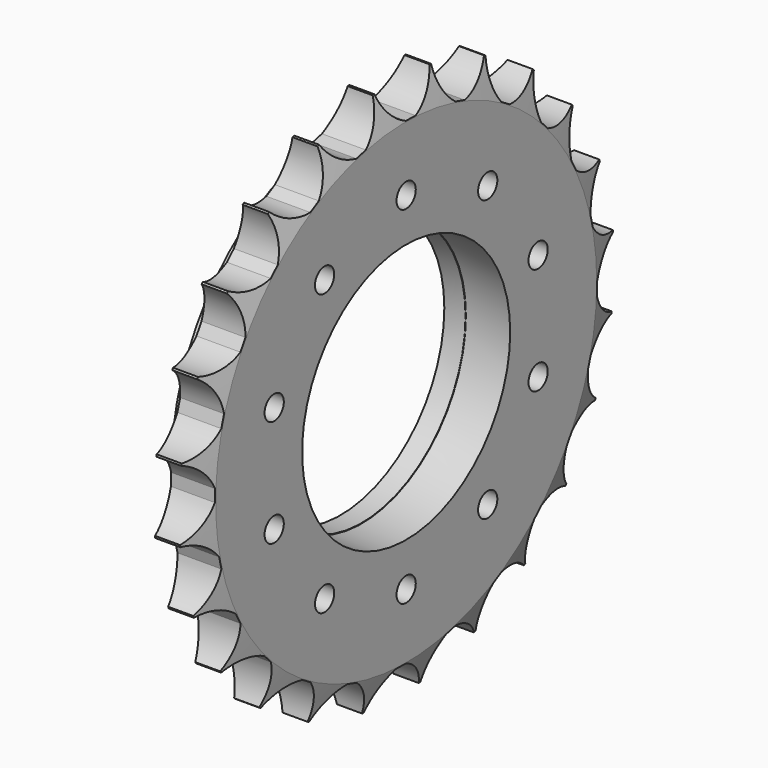
from build123d import *

# Parameters (mm, degrees)
F0_R       = 14.3383
F0_R_2     = 6.858
F1_DEPTH   = 2.3368
F2_SIZE2   = 0.508
F2_SIZE    = 1.778
F2_2_SIZE2 = 0.508
F2_2_SIZE  = 1.778
F4_DEPTH   = 25.4
F5_R       = 0.633649094
F6_DEPTH   = 25.4
F7_R       = 11.1463908985
F7_R_2     = 6.8332396009
F8_DEPTH   = 1.1176


with BuildPart() as f1:
    # F0 (on Right) → F1 (new body)
    with BuildSketch(Plane.YZ):
        Circle(F0_R)
        Circle(F0_R_2, mode=Mode.SUBTRACT)
    extrude(amount=F1_DEPTH)

    # F2
    f2_edges = [f1.edges().sort_by_distance(p)[0] for p in [
        (2.3368, -14.3383, 0),
    ]]
    f2_side = f1.faces().sort_by_distance((2.3368, -13.932752, 0))[0]
    chamfer(f2_edges, length=F2_SIZE, length2=F2_SIZE2, reference=f2_side)

    # F2#2
    f2_2_edges = [f1.edges().sort_by_distance(p)[0] for p in [
        (0, -14.3383, 0),
    ]]
    f2_2_side = f1.faces().sort_by_distance((0, -13.932752, 0))[0]
    chamfer(f2_2_edges, length=F2_2_SIZE, length2=F2_2_SIZE2, reference=f2_2_side)

    # F3 (on face) → F4 (cut)
    with BuildSketch(Plane.YZ.offset(2.3368)):
        with BuildLine():
            ThreePointArc((12.1644434592, 3.2686567674), (12.2438187208, 2.9574828603), (12.3152353411, 2.6443865508))
            ThreePointArc((12.3152353411, 2.6443865508), (13.1689702175, 1.8821364969), (14.2703754991, 1.5710178868))
            ThreePointArc((14.2703754991, 1.5710178868), (13.9552464995, 3.3708766255), (13.4140568607, 5.1161306301))
            ThreePointArc((13.4140568607, 5.1161306301), (12.5761059648, 4.3365623651), (12.1644434592, 3.2686567674))
        make_face()
        with BuildLine():
            ThreePointArc((10.9039594764, 6.3056696293), (11.061167825, 6.0256425453), (11.2111862708, 5.7416987153))
            ThreePointArc((11.2111862708, 5.7416987153), (12.2331156678, 5.2263845477), (13.3775148961, 5.2109317104))
            ThreePointArc((13.3775148961, 5.2109317104), (12.6072859367, 6.867900363), (11.6328319128, 8.4136160939))
            ThreePointArc((11.6328319128, 8.4136160939), (11.0252006152, 7.4437333226), (10.9039594764, 6.3056696293))
        make_face()
        with BuildLine():
            ThreePointArc((8.9003886749, 8.9129615265), (9.1247166214, 8.6831646486), (9.3431133836, 8.447723601))
            ThreePointArc((9.3431133836, 8.447723601), (10.4635945016, 8.2144631285), (11.5729987604, 8.4957291494))
            ThreePointArc((11.5729987604, 8.4957291494), (10.4001596719, 9.8968880405), (9.0588486941, 11.1377275251))
            ThreePointArc((9.0588486941, 11.1377275251), (8.7229460636, 10.0436261556), (8.9003886749, 8.9129615265))
        make_face()
        with BuildLine():
            ThreePointArc((6.2902710938, 10.912849825), (6.5664310594, 10.7489434308), (6.8383227594, 10.5780500837))
            ThreePointArc((6.8383227594, 10.5780500837), (7.980996662, 10.6427396221), (8.9798018844, 11.2015566867))
            ThreePointArc((8.9798018844, 11.2015566867), (7.4842797125, 12.2514191534), (5.8675199075, 13.1028212314))
            ThreePointArc((5.8675199075, 13.1028212314), (5.8262371532, 11.959062464), (6.2902710938, 10.912849825))
        make_face()
        with BuildLine():
            ThreePointArc((3.2514819328, 12.1690454423), (3.5606540721, 12.0821994817), (3.8675117401, 11.9874999344))
            ThreePointArc((3.8675117401, 11.9874999344), (4.954507089, 12.3457309985), (5.7746463498, 13.1440166472))
            ThreePointArc((5.7746463498, 13.1440166472), (4.058358459, 13.7710362974), (2.2763293356, 14.1749793242))
            ThreePointArc((2.2763293356, 14.1749793242), (2.5324798091, 13.0595084287), (3.2514819328, 12.1690454423))
        make_face()
        with BuildLine():
            ThreePointArc((-0.0088903486, 12.595940723), (0.3122243942, 12.5920736046), (0.6331361871, 12.5800214747))
            ThreePointArc((0.6331361871, 12.5800214747), (1.5903760457, 13.2073812096), (2.1759582095, 14.1907335948))
            ThreePointArc((2.1759582095, 14.1907335948), (0.3558667833, 14.3521800755), (-1.4699893186, 14.2811360014))
            ThreePointArc((-1.4699893186, 14.2811360014), (-0.9338618488, 13.2699704759), (-0.0088903486, 12.595940723))
        make_face()
        with BuildLine():
            ThreePointArc((-6.3056696293, 10.9039594764), (-6.0256425453, 11.061167825), (-5.7416987153, 11.2111862708))
            ThreePointArc((-5.7416987153, 11.2111862708), (-5.2263845477, 12.2331156678), (-5.2109317104, 13.3775148961))
            ThreePointArc((-5.2109317104, 13.3775148961), (-6.867900363, 12.6072859367), (-8.4136160939, 11.6328319128))
            ThreePointArc((-8.4136160939, 11.6328319128), (-7.4437333226, 11.0252006152), (-6.3056696293, 10.9039594764))
        make_face()
        with BuildLine():
            ThreePointArc((-8.9129615265, 8.9003886749), (-8.6831646486, 9.1247166214), (-8.447723601, 9.3431133836))
            ThreePointArc((-8.447723601, 9.3431133836), (-8.2144631285, 10.4635945016), (-8.4957291494, 11.5729987604))
            ThreePointArc((-8.4957291494, 11.5729987604), (-9.8968880405, 10.4001596719), (-11.1377275251, 9.0588486941))
            ThreePointArc((-11.1377275251, 9.0588486941), (-10.0436261556, 8.7229460636), (-8.9129615265, 8.9003886749))
        make_face()
        with BuildLine():
            ThreePointArc((-10.912849825, 6.2902710938), (-10.7489434308, 6.5664310594), (-10.5780500837, 6.8383227594))
            ThreePointArc((-10.5780500837, 6.8383227594), (-10.6427396221, 7.980996662), (-11.2015566867, 8.9798018844))
            ThreePointArc((-11.2015566867, 8.9798018844), (-12.2514191534, 7.4842797125), (-13.1028212314, 5.8675199075))
            ThreePointArc((-13.1028212314, 5.8675199075), (-11.959062464, 5.8262371532), (-10.912849825, 6.2902710938))
        make_face()
        with BuildLine():
            ThreePointArc((-12.1690454423, 3.2514819328), (-12.0821994817, 3.5606540721), (-11.9874999344, 3.8675117401))
            ThreePointArc((-11.9874999344, 3.8675117401), (-12.3457309985, 4.954507089), (-13.1440166472, 5.7746463498))
            ThreePointArc((-13.1440166472, 5.7746463498), (-13.7710362974, 4.058358459), (-14.1749793242, 2.2763293356))
            ThreePointArc((-14.1749793242, 2.2763293356), (-13.0595084287, 2.5324798091), (-12.1690454423, 3.2514819328))
        make_face()
        with BuildLine():
            ThreePointArc((-12.595940723, -0.0088903486), (-12.5920736046, 0.3122243942), (-12.5800214747, 0.6331361871))
            ThreePointArc((-12.5800214747, 0.6331361871), (-13.2073812096, 1.5903760457), (-14.1907335948, 2.1759582095))
            ThreePointArc((-14.1907335948, 2.1759582095), (-14.3521800755, 0.3558667833), (-14.2811360014, -1.4699893186))
            ThreePointArc((-14.2811360014, -1.4699893186), (-13.2699704759, -0.9338618488), (-12.595940723, -0.0088903486))
        make_face()
        with BuildLine():
            ThreePointArc((-13.4140568607, -5.1161306301), (-12.5761059648, -4.3365623651), (-12.1644434592, -3.2686567674))
            ThreePointArc((-12.1644434592, -3.2686567674), (-12.2438187208, -2.9574828603), (-12.3152353411, -2.6443865508))
            ThreePointArc((-12.3152353411, -2.6443865508), (-13.1689702175, -1.8821364969), (-14.2703754991, -1.5710178868))
            ThreePointArc((-14.2703754991, -1.5710178868), (-13.9552464995, -3.3708766255), (-13.4140568607, -5.1161306301))
        make_face()
        with BuildLine():
            ThreePointArc((-11.6328319128, -8.4136160939), (-11.0252006152, -7.4437333226), (-10.9039594764, -6.3056696293))
            ThreePointArc((-10.9039594764, -6.3056696293), (-11.061167825, -6.0256425453), (-11.2111862708, -5.7416987153))
            ThreePointArc((-11.2111862708, -5.7416987153), (-12.2331156678, -5.2263845477), (-13.3775148961, -5.2109317104))
            ThreePointArc((-13.3775148961, -5.2109317104), (-12.6072859367, -6.867900363), (-11.6328319128, -8.4136160939))
        make_face()
        with BuildLine():
            ThreePointArc((-9.0588486941, -11.1377275251), (-8.7229460636, -10.0436261556), (-8.9003886749, -8.9129615265))
            ThreePointArc((-8.9003886749, -8.9129615265), (-9.1247166214, -8.6831646486), (-9.3431133836, -8.447723601))
            ThreePointArc((-9.3431133836, -8.447723601), (-10.4635945016, -8.2144631285), (-11.5729987604, -8.4957291494))
            ThreePointArc((-11.5729987604, -8.4957291494), (-10.4001596719, -9.8968880405), (-9.0588486941, -11.1377275251))
        make_face()
        with BuildLine():
            ThreePointArc((-5.8675199075, -13.1028212314), (-5.8262371532, -11.959062464), (-6.2902710938, -10.912849825))
            ThreePointArc((-6.2902710938, -10.912849825), (-6.5664310594, -10.7489434308), (-6.8383227594, -10.5780500837))
            ThreePointArc((-6.8383227594, -10.5780500837), (-7.980996662, -10.6427396221), (-8.9798018844, -11.2015566867))
            ThreePointArc((-8.9798018844, -11.2015566867), (-7.4842797125, -12.2514191534), (-5.8675199075, -13.1028212314))
        make_face()
        with BuildLine():
            ThreePointArc((-2.2763293356, -14.1749793242), (-2.5324798091, -13.0595084287), (-3.2514819328, -12.1690454423))
            ThreePointArc((-3.2514819328, -12.1690454423), (-3.5606540721, -12.0821994817), (-3.8675117401, -11.9874999344))
            ThreePointArc((-3.8675117401, -11.9874999344), (-4.954507089, -12.3457309985), (-5.7746463498, -13.1440166472))
            ThreePointArc((-5.7746463498, -13.1440166472), (-4.058358459, -13.7710362974), (-2.2763293356, -14.1749793242))
        make_face()
        with BuildLine():
            ThreePointArc((1.4699893186, -14.2811360014), (0.9338618488, -13.2699704759), (0.0088903486, -12.595940723))
            ThreePointArc((0.0088903486, -12.595940723), (-0.3122243942, -12.5920736046), (-0.6331361871, -12.5800214747))
            ThreePointArc((-0.6331361871, -12.5800214747), (-1.5903760457, -13.2073812096), (-2.1759582095, -14.1907335948))
            ThreePointArc((-2.1759582095, -14.1907335948), (-0.3558667833, -14.3521800755), (1.4699893186, -14.2811360014))
        make_face()
        with BuildLine():
            ThreePointArc((5.1161306301, -13.4140568607), (4.3365623651, -12.5761059648), (3.2686567674, -12.1644434592))
            ThreePointArc((3.2686567674, -12.1644434592), (2.9574828603, -12.2438187208), (2.6443865508, -12.3152353411))
            ThreePointArc((2.6443865508, -12.3152353411), (1.8821364969, -13.1689702175), (1.5710178868, -14.2703754991))
            ThreePointArc((1.5710178868, -14.2703754991), (3.3708766255, -13.9552464995), (5.1161306301, -13.4140568607))
        make_face()
        with BuildLine():
            ThreePointArc((8.4136160939, -11.6328319128), (7.4437333226, -11.0252006152), (6.3056696293, -10.9039594764))
            ThreePointArc((6.3056696293, -10.9039594764), (6.0256425453, -11.061167825), (5.7416987153, -11.2111862708))
            ThreePointArc((5.7416987153, -11.2111862708), (5.2263845477, -12.2331156678), (5.2109317104, -13.3775148961))
            ThreePointArc((5.2109317104, -13.3775148961), (6.867900363, -12.6072859367), (8.4136160939, -11.6328319128))
        make_face()
        with BuildLine():
            ThreePointArc((11.1377275251, -9.0588486941), (10.0436261556, -8.7229460636), (8.9129615265, -8.9003886749))
            ThreePointArc((8.9129615265, -8.9003886749), (8.6831646486, -9.1247166214), (8.447723601, -9.3431133836))
            ThreePointArc((8.447723601, -9.3431133836), (8.2144631285, -10.4635945016), (8.4957291494, -11.5729987604))
            ThreePointArc((8.4957291494, -11.5729987604), (9.8968880405, -10.4001596719), (11.1377275251, -9.0588486941))
        make_face()
        with BuildLine():
            ThreePointArc((13.1028212314, -5.8675199075), (11.959062464, -5.8262371532), (10.912849825, -6.2902710938))
            ThreePointArc((10.912849825, -6.2902710938), (10.7489434308, -6.5664310594), (10.5780500837, -6.8383227594))
            ThreePointArc((10.5780500837, -6.8383227594), (10.6427396221, -7.980996662), (11.2015566867, -8.9798018844))
            ThreePointArc((11.2015566867, -8.9798018844), (12.2514191534, -7.4842797125), (13.1028212314, -5.8675199075))
        make_face()
        with BuildLine():
            ThreePointArc((14.1749793242, -2.2763293356), (13.0595084287, -2.5324798091), (12.1690454423, -3.2514819328))
            ThreePointArc((12.1690454423, -3.2514819328), (12.0821994817, -3.5606540721), (11.9874999344, -3.8675117401))
            ThreePointArc((11.9874999344, -3.8675117401), (12.3457309985, -4.954507089), (13.1440166472, -5.7746463498))
            ThreePointArc((13.1440166472, -5.7746463498), (13.7710362974, -4.058358459), (14.1749793242, -2.2763293356))
        make_face()
        with BuildLine():
            ThreePointArc((12.595940723, 0.0088903486), (12.5959430761, 0.0044451746), (12.5959438605, 0))
            ThreePointArc((12.5959438605, 0), (12.5919626349, -0.3166681835), (12.5800214747, -0.6331361871))
            ThreePointArc((12.5800214747, -0.6331361871), (13.2073812096, -1.5903760457), (14.1907335948, -2.1759582095))
            ThreePointArc((14.1907335948, -2.1759582095), (14.3150668304, -1.091135064), (14.3565913116, 0))
            ThreePointArc((14.3565913116, 0), (14.3377150747, 0.7359623123), (14.2811360014, 1.4699893186))
            ThreePointArc((14.2811360014, 1.4699893186), (13.2699704759, 0.9338618488), (12.595940723, 0.0088903486))
        make_face()
        with BuildLine():
            ThreePointArc((-3.2686567674, 12.1644434592), (-2.9574828603, 12.2438187208), (-2.6443865508, 12.3152353411))
            ThreePointArc((-2.6443865508, 12.3152353411), (-1.8821364969, 13.1689702175), (-1.5710178868, 14.2703754991))
            ThreePointArc((-1.5710178868, 14.2703754991), (-3.3708766255, 13.9552464995), (-5.1161306301, 13.4140568607))
            ThreePointArc((-5.1161306301, 13.4140568607), (-4.3365623651, 12.5761059648), (-3.2686567674, 12.1644434592))
        make_face()
    extrude(amount=-F4_DEPTH, mode=Mode.SUBTRACT)

    # F5 (on face) → F6 (cut)
    with BuildSketch(Plane.YZ.offset(2.3368)):
        with Locations((0, -9.1454312205)):
            Circle(F5_R)
        with Locations((5.3755495973, -7.3988092783)):
            Circle(F5_R)
        with Locations((8.6978219566, -2.826093668)):
            Circle(F5_R)
        with Locations((8.6978219566, 2.826093668)):
            Circle(F5_R)
        with Locations((5.3755495973, 7.3988092783)):
            Circle(F5_R)
        with Locations((0, 9.1454312205)):
            Circle(F5_R)
        with Locations((-5.3755495973, 7.3988092783)):
            Circle(F5_R)
        with Locations((-8.6978219566, 2.826093668)):
            Circle(F5_R)
        with Locations((-8.6978219566, -2.826093668)):
            Circle(F5_R)
        with Locations((-5.3755495973, -7.3988092783)):
            Circle(F5_R)
    extrude(amount=-F6_DEPTH, mode=Mode.SUBTRACT)

    # F7 (on Right) → F8 (join)
    with BuildSketch(Plane.YZ):
        Circle(F7_R)
        Circle(F7_R_2, mode=Mode.SUBTRACT)
    extrude(amount=-F8_DEPTH)


solid = f1.part
